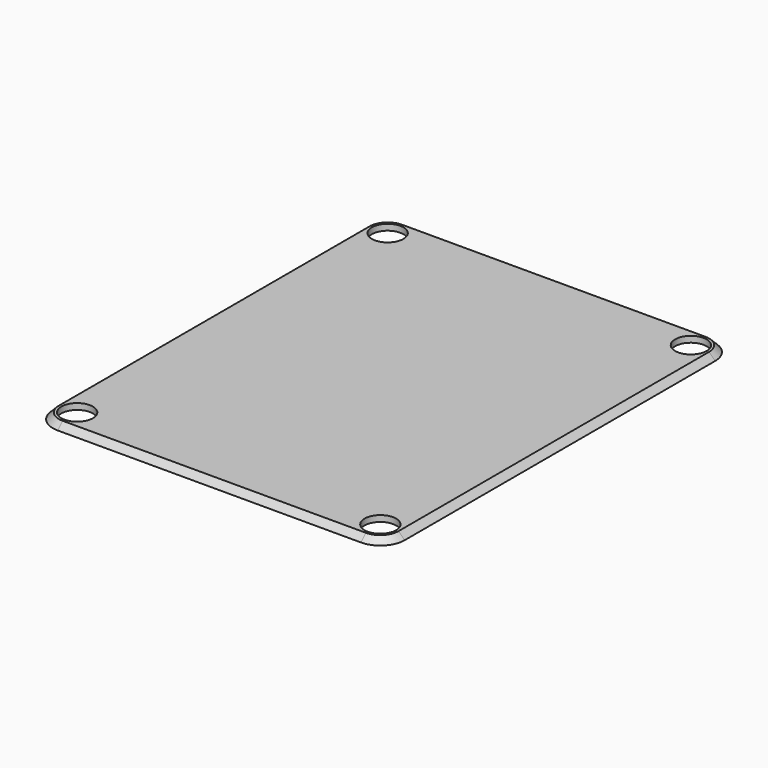
from build123d import *

# Parameters (mm, degrees)
SKETCH034_W      = 60
SKETCH034_H      = 74
SKETCH034_R      = 2.6
EXTRUDE039_DEPTH = 1


with BuildPart() as bevel003:
    # Sweep002: sweep along a path in Sketch041
    with BuildLine(Plane(origin=(0, 0, -2), x_dir=(1, 0, 0), z_dir=(0, 0, -1))) as sweep002_path:
        Line((-25, 35), (25, 35))
        ThreePointArc((25, 35), (27.12132, 34.12132), (28, 32))
        Line((28, 32), (28, -32))
        ThreePointArc((28, -32), (27.12132, -34.12132), (25, -35))
        Line((25, -35), (-25, -35))
        ThreePointArc((-25, -35), (-27.12132, -34.12132), (-28, -32))
        Line((-28, -32), (-28, 32))
        ThreePointArc((-28, 32), (-27.12132, 34.12132), (-25, 35))
    # Sketch040 → Sweep002 (sweep)
    with BuildSketch(Plane.XZ):
        Polygon((-28, 11), (-30, 9), (-30, 1), (-28, -1), (-28, -2), (-33, -2), (-33, 12), (-28, 12), align=None)
    sweep(path=sweep002_path.line)


with BuildPart() as cut:
    # Sketch034 → Extrude039 (new body)
    with BuildSketch(Plane.XY.offset(10)):
        Rectangle(SKETCH034_W, SKETCH034_H)
        with Locations((-25, 32)):
            Circle(SKETCH034_R, mode=Mode.SUBTRACT)
        with Locations((25, 32)):
            Circle(SKETCH034_R, mode=Mode.SUBTRACT)
        with Locations((-25, -32)):
            Circle(SKETCH034_R, mode=Mode.SUBTRACT)
        with Locations((25, -32)):
            Circle(SKETCH034_R, mode=Mode.SUBTRACT)
    extrude(amount=EXTRUDE039_DEPTH)

    # Cut: cut bevel003
    add(bevel003.part, mode=Mode.SUBTRACT)


solid = cut.part
